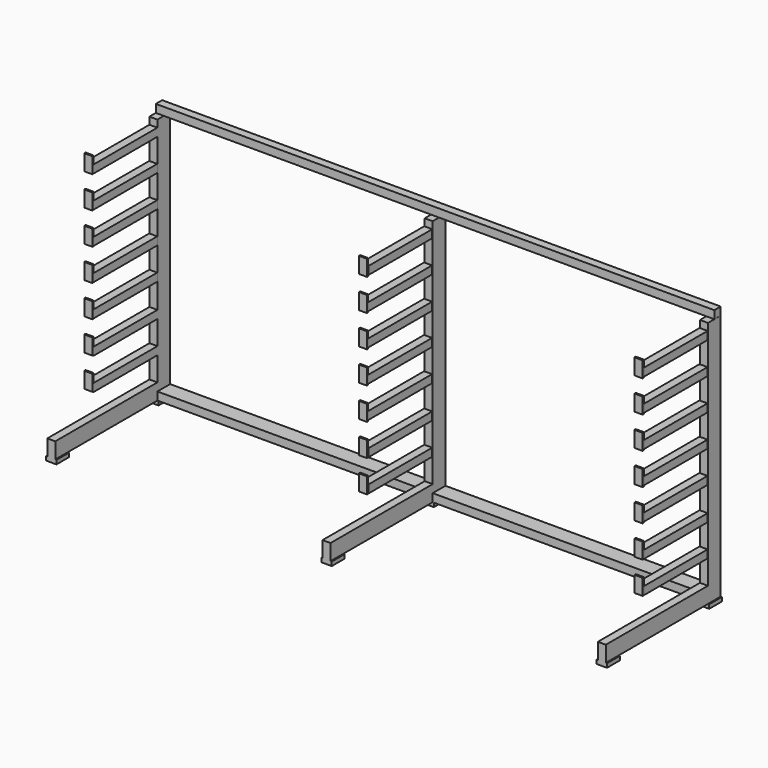
from build123d import *

# Parameters (mm, degrees)
F1_DEPTH  = 100
F3_DEPTH  = 800
F4_W      = 1749.815702
F4_H      = 50
F5_DEPTH  = 50
F6_W      = 50
F6_H      = 50
F7_DEPTH  = 500
F8_W      = 50
F8_H      = 100
F9_DEPTH  = 10
F10_DEPTH = 10
F11_W     = 32.5
F11_H     = 100
F12_DEPTH = 25


with BuildPart() as f1:
    # F0 (on Front) → F1 (new body)
    with BuildSketch(Plane.XZ):
        Polygon((-3500, 0), (0, 0), (0, 1550), (-50, 1550), (-50, 50), (-1725, 50), (-1725, 1550), (-1775, 1550), (-1775, 50), (-3450, 50), (-3450, 1550), (-3500, 1550), align=None)
    extrude(amount=F1_DEPTH)

    # F2 (on face) → F3 (join)
    with BuildSketch(Plane.XZ.offset(100)):
        Polygon((-1775, 50), (-1775, 0), (-1725, 0), (-1725, 50), (-1725, 100), (-1775, 100), align=None)
        Polygon((-3500, 100), (-3500, 0), (-3450, 0), (-3450, 50), (-3450, 100), align=None)
        Polygon((-50, 50), (-50, 0), (0, 0), (0, 100), (-50, 100), align=None)
    extrude(amount=F3_DEPTH)

    # F4 (on face) → F5 (join)
    with BuildSketch(Plane.XY.offset(1550)):
        with Locations((-875.092149, -25)):
            Rectangle(F4_W, F4_H)
        with Locations((-2624.907851, -25)):
            Rectangle(F4_W, F4_H)
    extrude(amount=F5_DEPTH)

    # F6 (on face) → F7 (join)
    with BuildSketch(Plane.XZ.offset(100)):
        with Locations((-3475, 275)):
            Rectangle(F6_W, F6_H)
        with Locations((-3475, 475)):
            Rectangle(F6_W, F6_H)
        with Locations((-3475.837822, 680.244577)):
            Rectangle(F6_W, F6_H)
        with Locations((-3475.837822, 880.244577)):
            Rectangle(F6_W, F6_H)
        with Locations((-3475.837822, 1080.244577)):
            Rectangle(F6_W, F6_H)
        with Locations((-3475.837822, 1280.244577)):
            Rectangle(F6_W, F6_H)
        with Locations((-3475, 1480.244577)):
            Rectangle(F6_W, F6_H)
        with Locations((-1752.889729, 275)):
            Rectangle(F6_W, F6_H)
        with Locations((-1752.889729, 475)):
            Rectangle(F6_W, F6_H)
        with Locations((-1753.727551, 680.244577)):
            Rectangle(F6_W, F6_H)
        with Locations((-1753.727551, 880.244577)):
            Rectangle(F6_W, F6_H)
        with Locations((-1753.727551, 1080.244577)):
            Rectangle(F6_W, F6_H)
        with Locations((-1753.727551, 1280.244577)):
            Rectangle(F6_W, F6_H)
        with Locations((-1752.889729, 1480.244577)):
            Rectangle(F6_W, F6_H)
        with Locations((-27.241493, 275)):
            Rectangle(F6_W, F6_H)
        with Locations((-27.241493, 475)):
            Rectangle(F6_W, F6_H)
        with Locations((-28.079315, 680.244577)):
            Rectangle(F6_W, F6_H)
        with Locations((-28.079315, 880.244577)):
            Rectangle(F6_W, F6_H)
        with Locations((-28.079315, 1080.244577)):
            Rectangle(F6_W, F6_H)
        with Locations((-28.079315, 1280.244577)):
            Rectangle(F6_W, F6_H)
        with Locations((-27.241493, 1480.244577)):
            Rectangle(F6_W, F6_H)
    extrude(amount=F7_DEPTH)

    # F8 (on face) → F9 (join)
    with BuildSketch(Plane.XZ.offset(600)):
        with Locations((-3475, 1505.244577)):
            Rectangle(F8_W, F8_H)
        with Locations((-3475, 1305.244577)):
            Rectangle(F8_W, F8_H)
        with Locations((-3475, 1105.244577)):
            Rectangle(F8_W, F8_H)
        with Locations((-3475, 905.244577)):
            Rectangle(F8_W, F8_H)
        with Locations((-3475, 705.244577)):
            Rectangle(F8_W, F8_H)
        with Locations((-3475, 505.244577)):
            Rectangle(F8_W, F8_H)
        with Locations((-3475, 305.244577)):
            Rectangle(F8_W, F8_H)
        with Locations((-1753.748274, 1498.919457)):
            Rectangle(F8_W, F8_H)
        with Locations((-1753.748274, 1298.919457)):
            Rectangle(F8_W, F8_H)
        with Locations((-1753.748274, 1098.919457)):
            Rectangle(F8_W, F8_H)
        with Locations((-1753.748274, 898.919457)):
            Rectangle(F8_W, F8_H)
        with Locations((-1753.748274, 698.919457)):
            Rectangle(F8_W, F8_H)
        with Locations((-1753.748274, 498.919457)):
            Rectangle(F8_W, F8_H)
        with Locations((-1753.748274, 298.919457)):
            Rectangle(F8_W, F8_H)
        with Locations((-26.995981, 1500.499964)):
            Rectangle(F8_W, F8_H)
        with Locations((-26.995981, 1300.499964)):
            Rectangle(F8_W, F8_H)
        with Locations((-26.995981, 1100.499964)):
            Rectangle(F8_W, F8_H)
        with Locations((-26.995981, 900.499964)):
            Rectangle(F8_W, F8_H)
        with Locations((-26.995981, 700.499964)):
            Rectangle(F8_W, F8_H)
        with Locations((-26.995981, 500.499964)):
            Rectangle(F8_W, F8_H)
        with Locations((-26.995981, 300.499964)):
            Rectangle(F8_W, F8_H)
    extrude(amount=F9_DEPTH)

    # F8 (on face) → F10 (join)
    with BuildSketch(Plane.XZ.offset(600)):
        with Locations((-3475, 1505.244577)):
            Rectangle(F8_W, F8_H)
        with Locations((-3475, 1305.244577)):
            Rectangle(F8_W, F8_H)
        with Locations((-3475, 1105.244577)):
            Rectangle(F8_W, F8_H)
        with Locations((-3475, 905.244577)):
            Rectangle(F8_W, F8_H)
        with Locations((-3475, 705.244577)):
            Rectangle(F8_W, F8_H)
        with Locations((-3475, 505.244577)):
            Rectangle(F8_W, F8_H)
        with Locations((-3475, 305.244577)):
            Rectangle(F8_W, F8_H)
        with Locations((-1753.748274, 1498.919457)):
            Rectangle(F8_W, F8_H)
        with Locations((-1753.748274, 1298.919457)):
            Rectangle(F8_W, F8_H)
        with Locations((-1753.748274, 1098.919457)):
            Rectangle(F8_W, F8_H)
        with Locations((-1753.748274, 898.919457)):
            Rectangle(F8_W, F8_H)
        with Locations((-1753.748274, 698.919457)):
            Rectangle(F8_W, F8_H)
        with Locations((-1753.748274, 498.919457)):
            Rectangle(F8_W, F8_H)
        with Locations((-1753.748274, 298.919457)):
            Rectangle(F8_W, F8_H)
        with Locations((-26.995981, 1500.499964)):
            Rectangle(F8_W, F8_H)
        with Locations((-26.995981, 1300.499964)):
            Rectangle(F8_W, F8_H)
        with Locations((-26.995981, 1100.499964)):
            Rectangle(F8_W, F8_H)
        with Locations((-26.995981, 900.499964)):
            Rectangle(F8_W, F8_H)
        with Locations((-26.995981, 700.499964)):
            Rectangle(F8_W, F8_H)
        with Locations((-26.995981, 500.499964)):
            Rectangle(F8_W, F8_H)
        with Locations((-26.995981, 300.499964)):
            Rectangle(F8_W, F8_H)
    extrude(amount=F10_DEPTH)

    # F11 (on face) → F12 (join)
    with BuildSketch(Plane(origin=(0, 0, 0), x_dir=(1, 0, 0), z_dir=(0, 0, -1))):
        with Locations((-3458.75, 850)):
            Rectangle(F11_W, F11_H)
        with Locations((-3491.25, 850)):
            Rectangle(F11_W, F11_H)
        with Locations((-3458.75, 50)):
            Rectangle(F11_W, F11_H)
        with Locations((-3491.25, 50)):
            Rectangle(F11_W, F11_H)
        with Locations((-1733.75, 850)):
            Rectangle(F11_W, F11_H)
        with Locations((-1733.75, 50)):
            Rectangle(F11_W, F11_H)
        with Locations((-1766.25, 50)):
            Rectangle(F11_W, F11_H)
        with Locations((-1766.25, 850)):
            Rectangle(F11_W, F11_H)
        with Locations((-8.75, 850)):
            Rectangle(F11_W, F11_H)
        with Locations((-41.25, 850)):
            Rectangle(F11_W, F11_H)
        with Locations((-8.75, 50)):
            Rectangle(F11_W, F11_H)
        with Locations((-41.25, 50)):
            Rectangle(F11_W, F11_H)
    extrude(amount=F12_DEPTH)


solid = f1.part
